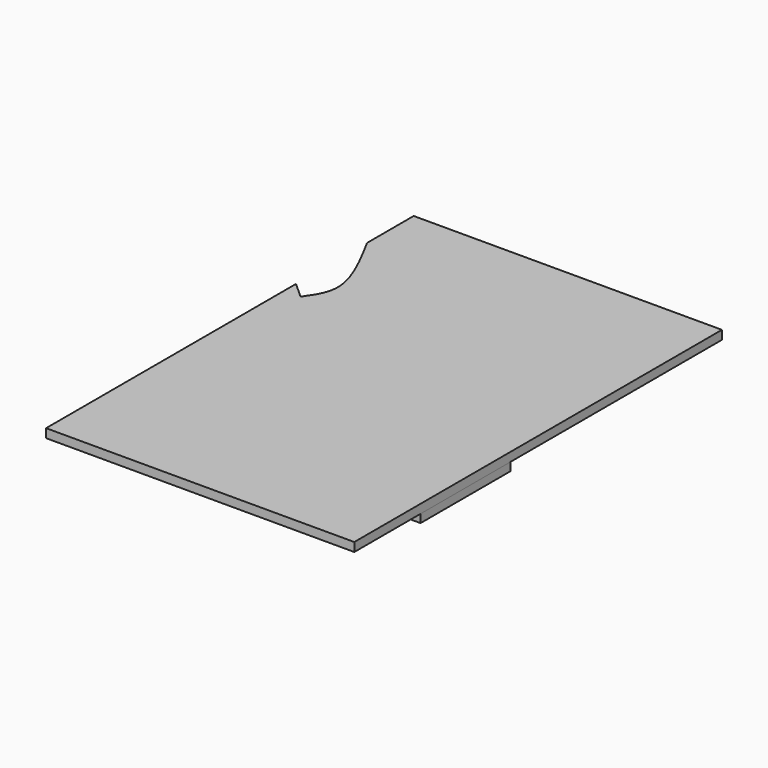
from build123d import *

# Parameters (mm, degrees)
F1_DEPTH = 2
F2_W     = 2.1478533745
F2_H     = 25.4813507199
F3_DEPTH = 2


with BuildPart() as f1:
    # F0 (on Top) → F1 (new body)
    with BuildSketch(Plane.XY):
        with BuildLine():
            Line((-50.4745617509, 15.1801089048), (-50.4745617509, -3.8698910952))
            Line((-50.4745617509, -3.8698910952), (-50.4745617509, -29.2698910952))
            Line((-50.4745617509, -29.2698910952), (-50.4745617509, -48.3198910952))
            Line((-50.4745617509, -48.3198910952), (-28.2495617509, -48.3198910952))
            Line((-28.2495617509, -48.3198910952), (-2.8495617509, -48.3198910952))
            Line((-2.8495617509, -48.3198910952), (19.3754382491, -48.3198910952))
            Line((19.3754382491, -48.3198910952), (19.3754382491, -29.2698910952))
            Line((19.3754382491, -29.2698910952), (19.3754382491, -3.8698910952))
            Line((19.3754382491, -3.8698910952), (19.3754382491, 15.1801089048))
            Line((19.3754382491, 15.1801089048), (19.3754382491, 55.8201089048))
            Line((19.3754382491, 55.8201089048), (-50.4745617509, 55.8201089048))
            Line((-50.4745617509, 55.8201089048), (-50.4745617509, 42.5905920565))
            add(Edge.make_bspline(
                [(-46.7963367701, 19.1511064768), (-45.3638130005, 21.1811384078), (-41.711839481, 26.3563570482), (-47.1621757409, 36.4539075513), (-50.4745617509, 42.5905920565)],
                knots=[0, 0, 0, 0, 0.3922601785, 1, 1, 1, 1], degree=3))
            Line((-46.7963367701, 19.1511064768), (-50.4745617509, 22.4870592356))
            Line((-50.4745617509, 22.4870592356), (-50.4745617509, 15.1801089048))
        make_face()
    extrude(amount=F1_DEPTH)

    # F2 (on Top) → F3 (join)
    with BuildSketch(Plane.XY):
        with Locations((18.1335583329, -16.6092142463)):
            Rectangle(F2_W, F2_H)
    extrude(amount=-F3_DEPTH)


solid = f1.part
